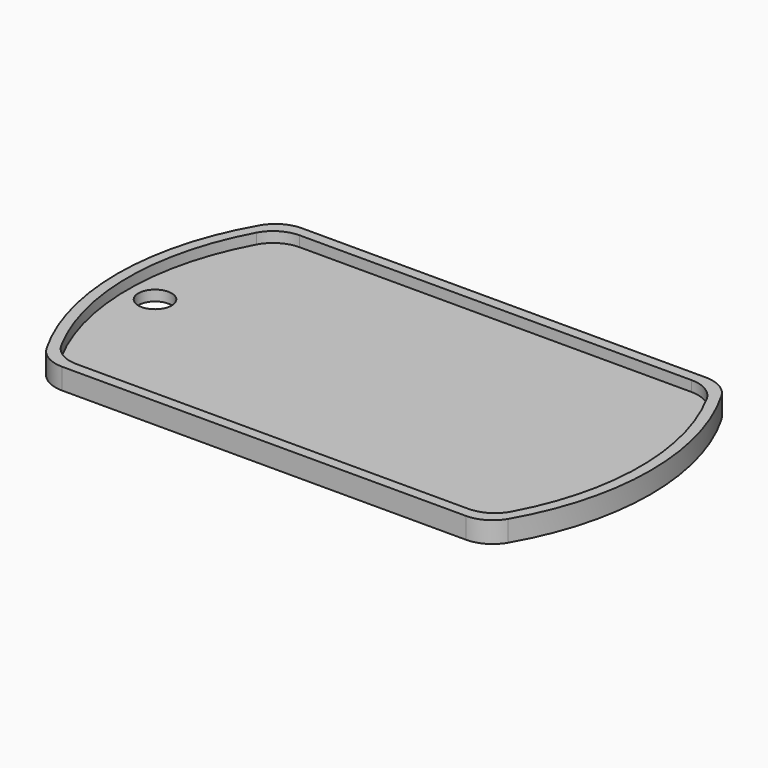
from build123d import *

# Parameters (mm, degrees)
F1_DEPTH = 1
F3_DEPTH = 1
F4_R     = 1.5875
F5_DEPTH = 1


with BuildPart() as f1:
    # F0 (on Top) → F1 (new body)
    with BuildSketch(Plane.XY):
        with BuildLine():
            ThreePointArc((-19.247415, 14.2875), (-20.834915, 13.862131), (-21.997045, 12.7))
            ThreePointArc((-21.997045, 12.7), (-25.4, 0), (-21.997045, -12.7))
            ThreePointArc((-21.997045, -12.7), (-20.834915, -13.862131), (-19.247415, -14.2875))
            Line((-19.247415, -14.2875), (19.247415, -14.2875))
            ThreePointArc((19.247415, -14.2875), (20.834915, -13.862131), (21.997045, -12.7))
            ThreePointArc((21.997045, -12.7), (25.4, 0), (21.997045, 12.7))
            ThreePointArc((21.997045, 12.7), (20.834915, 13.862131), (19.247415, 14.2875))
            Line((19.247415, 14.2875), (-19.247415, 14.2875))
        make_face()
    extrude(amount=F1_DEPTH)

    # F2 (on face) → F3 (join)
    with BuildSketch(Plane.XY.offset(1)):
        with BuildLine():
            Line((19.247415, 14.2875), (-19.247415, 14.2875))
            ThreePointArc((-19.247415, 14.2875), (-20.834915, 13.862131), (-21.997045, 12.7))
            ThreePointArc((-21.997045, 12.7), (-25.4, 0), (-21.997045, -12.7))
            ThreePointArc((-21.997045, -12.7), (-20.834915, -13.862131), (-19.247415, -14.2875))
            Line((-19.247415, -14.2875), (19.247415, -14.2875))
            ThreePointArc((19.247415, -14.2875), (20.834915, -13.862131), (21.997045, -12.7))
            ThreePointArc((21.997045, -12.7), (25.4, 0), (21.997045, 12.7))
            ThreePointArc((21.997045, 12.7), (20.834915, 13.862131), (19.247415, 14.2875))
        make_face()
        with BuildLine():
            ThreePointArc((-21.452612, 11.625206), (-20.285602, 12.840454), (-18.661135, 13.2875))
            Line((-18.661135, 13.2875), (18.661135, 13.2875))
            ThreePointArc((18.661135, 13.2875), (20.285602, 12.840454), (21.452612, 11.625206))
            ThreePointArc((21.452612, 11.625206), (24.4, 0), (21.452612, -11.625206))
            ThreePointArc((21.452612, -11.625206), (20.285602, -12.840454), (18.661135, -13.2875))
            Line((18.661135, -13.2875), (-18.661135, -13.2875))
            ThreePointArc((-18.661135, -13.2875), (-20.285602, -12.840454), (-21.452612, -11.625206))
            ThreePointArc((-21.452612, -11.625206), (-24.4, 0), (-21.452612, 11.625206))
        make_face(mode=Mode.SUBTRACT)
    extrude(amount=F3_DEPTH)

    # F4 (on face) → F5 (cut)
    with BuildSketch(Plane.XY.offset(1)):
        with Locations((-21.821283, 0)):
            Circle(F4_R)
    extrude(amount=-F5_DEPTH, mode=Mode.SUBTRACT)


solid = f1.part
